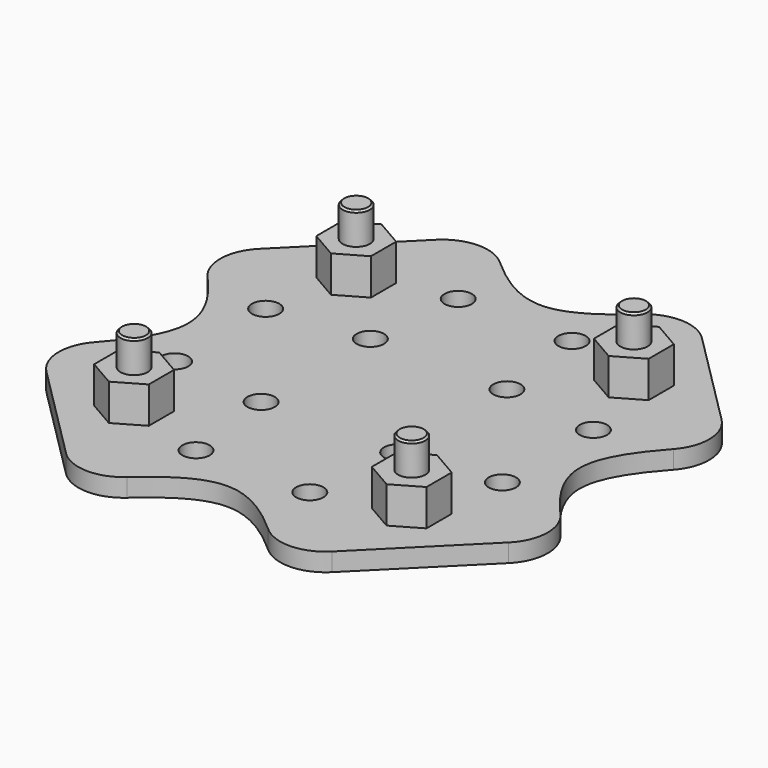
from build123d import *

# Parameters (mm, degrees)
F0_R     = 1.5
F1_DEPTH = 2
F2_R     = 5
F3_DEPTH = 6
F4_DEPTH = 9.5
F5_SIZE  = 0.2


with BuildPart() as f1:
    # F0 (on Top) → F1 (new body)
    with BuildSketch(Plane.XY):
        with BuildLine():
            add(Edge.make_bspline(
                [(-13.142859, 26.857141), (-8.951076, 24.20284), (-4.564468, 21.895542), (0, 20)],
                knots=[66.18026, 66.18026, 66.18026, 66.18026, 80.865454, 80.865454, 80.865454, 80.865454], degree=3))
            Line((-13.142859, 26.857141), (-20, 20))
            Line((-20, 20), (-26.857141, 13.142859))
            add(Edge.make_bspline(
                [(-26.857141, 13.142859), (-24.20284, 8.951076), (-21.895542, 4.564468), (-20, 0)],
                knots=[66.18026, 66.18026, 66.18026, 66.18026, 80.865454, 80.865454, 80.865454, 80.865454], degree=3))
            Line((-20, 0), (0, 0))
            Line((0, 0), (0, 20))
        make_face()
        with Locations((-18, 6.25)):
            Circle(F0_R, mode=Mode.SUBTRACT)
        with Locations((-7.5, 7.5)):
            Circle(F0_R, mode=Mode.SUBTRACT)
        Polygon((-15.25, 18.714102), (-12.25, 16.982051), (-12.25, 13.517949), (-15.25, 11.785898), (-18.25, 13.517949), (-18.25, 16.982051), align=None, mode=Mode.SUBTRACT)
        with Locations((-6.25, 18)):
            Circle(F0_R, mode=Mode.SUBTRACT)
        with BuildLine():
            Line((0, 0), (-20, 0))
            add(Edge.make_bspline(
                [(-26.854903, -13.145097), (-24.198754, -8.951027), (-21.891877, -4.563394), (-20, 0)],
                knots=[66.166, 66.166, 66.166, 66.166, 80.865454, 80.865454, 80.865454, 80.865454], degree=3))
            Line((-26.854903, -13.145097), (-20, -20))
            Line((-20, -20), (-13.145097, -26.854903))
            add(Edge.make_bspline(
                [(0, -20), (-4.563394, -21.891877), (-8.951027, -24.198754), (-13.145097, -26.854903)],
                knots=[0, 0, 0, 0, 14.699453, 14.699453, 14.699453, 14.699453], degree=3))
            Line((0, -20), (0, 0))
        make_face()
        Polygon((-15.25, -11.785898), (-12.25, -13.517949), (-12.25, -16.982051), (-15.25, -18.714102), (-18.25, -16.982051), (-18.25, -13.517949), align=None, mode=Mode.SUBTRACT)
        with Locations((-6.25, -18)):
            Circle(F0_R, mode=Mode.SUBTRACT)
        with Locations((-18, -6.25)):
            Circle(F0_R, mode=Mode.SUBTRACT)
        with Locations((-7.5, -7.5)):
            Circle(F0_R, mode=Mode.SUBTRACT)
        with BuildLine():
            Line((-11.161165, 28.838835), (-13.142859, 26.857141))
            add(Edge.make_bspline(
                [(-13.142859, 26.857141), (-8.951076, 24.20284), (-4.564468, 21.895542), (0, 20)],
                knots=[66.18026, 66.18026, 66.18026, 66.18026, 80.865454, 80.865454, 80.865454, 80.865454], degree=3))
            add(Edge.make_bspline(
                [(13.145097, 26.854903), (8.951027, 24.198754), (4.563394, 21.891877), (0, 20)],
                knots=[66.166, 66.166, 66.166, 66.166, 80.865454, 80.865454, 80.865454, 80.865454], degree=3))
            Line((13.145097, 26.854903), (11.161165, 28.838835))
            add(Edge.make_bspline(
                [(-11.161165, 28.838835), (-7.440777, 25.169417), (0, 17.830583), (7.440777, 25.169417), (11.161165, 28.838835)],
                knots=[0, 0, 0, 0, 13.357773, 26.715546, 26.715546, 26.715546, 26.715546], degree=3))
        make_face()
        with BuildLine():
            add(Edge.make_bspline(
                [(-26.857141, 13.142859), (-24.20284, 8.951076), (-21.895542, 4.564468), (-20, 0)],
                knots=[66.18026, 66.18026, 66.18026, 66.18026, 80.865454, 80.865454, 80.865454, 80.865454], degree=3))
            Line((-26.857141, 13.142859), (-28.838835, 11.161165))
            add(Edge.make_bspline(
                [(-28.838835, -11.161165), (-25.169417, -7.440777), (-17.830583, 0), (-25.169417, 7.440777), (-28.838835, 11.161165)],
                knots=[0, 0, 0, 0, 13.357773, 26.715546, 26.715546, 26.715546, 26.715546], degree=3))
            Line((-28.838835, -11.161165), (-26.854903, -13.145097))
            add(Edge.make_bspline(
                [(-26.854903, -13.145097), (-24.198754, -8.951027), (-21.891877, -4.563394), (-20, 0)],
                knots=[66.166, 66.166, 66.166, 66.166, 80.865454, 80.865454, 80.865454, 80.865454], degree=3))
        make_face()
        with BuildLine():
            add(Edge.make_bspline(
                [(26.854903, 13.145097), (24.198754, 8.951027), (21.891877, 4.563394), (20, 0)],
                knots=[66.166, 66.166, 66.166, 66.166, 80.865454, 80.865454, 80.865454, 80.865454], degree=3))
            add(Edge.make_bspline(
                [(20, 0), (21.891877, -4.563394), (24.198754, -8.951027), (26.854903, -13.145097)],
                knots=[0, 0, 0, 0, 14.699454, 14.699454, 14.699454, 14.699454], degree=3))
            Line((26.854903, -13.145097), (28.838835, -11.161165))
            add(Edge.make_bspline(
                [(28.838835, 11.161165), (25.169417, 7.440777), (17.830583, 0), (25.169417, -7.440777), (28.838835, -11.161165)],
                knots=[0, 0, 0, 0, 13.357773, 26.715546, 26.715546, 26.715546, 26.715546], degree=3))
            Line((28.838835, 11.161165), (26.854903, 13.145097))
        make_face()
        with BuildLine():
            Line((20, 0), (0, 0))
            Line((0, 0), (0, -20))
            add(Edge.make_bspline(
                [(0, -20), (4.563394, -21.891877), (8.951027, -24.198754), (13.145097, -26.854903)],
                knots=[0, 0, 0, 0, 14.699453, 14.699453, 14.699453, 14.699453], degree=3))
            Line((13.145097, -26.854903), (20, -20))
            Line((20, -20), (26.854903, -13.145097))
            add(Edge.make_bspline(
                [(20, 0), (21.891877, -4.563394), (24.198754, -8.951027), (26.854903, -13.145097)],
                knots=[0, 0, 0, 0, 14.699454, 14.699454, 14.699454, 14.699454], degree=3))
        make_face()
        with Locations((6.25, -18)):
            Circle(F0_R, mode=Mode.SUBTRACT)
        Polygon((15.25, -18.714102), (12.25, -16.982051), (12.25, -13.517949), (15.25, -11.785898), (18.25, -13.517949), (18.25, -16.982051), align=None, mode=Mode.SUBTRACT)
        with Locations((7.5, -7.5)):
            Circle(F0_R, mode=Mode.SUBTRACT)
        with Locations((18, -6.25)):
            Circle(F0_R, mode=Mode.SUBTRACT)
        with BuildLine():
            add(Edge.make_bspline(
                [(0, -20), (4.563394, -21.891877), (8.951027, -24.198754), (13.145097, -26.854903)],
                knots=[0, 0, 0, 0, 14.699453, 14.699453, 14.699453, 14.699453], degree=3))
            add(Edge.make_bspline(
                [(0, -20), (-4.563394, -21.891877), (-8.951027, -24.198754), (-13.145097, -26.854903)],
                knots=[0, 0, 0, 0, 14.699453, 14.699453, 14.699453, 14.699453], degree=3))
            Line((-13.145097, -26.854903), (-11.161165, -28.838835))
            add(Edge.make_bspline(
                [(11.161165, -28.838835), (7.440777, -25.169417), (0, -17.830583), (-7.440777, -25.169417), (-11.161165, -28.838835)],
                knots=[0, 0, 0, 0, 13.357773, 26.715546, 26.715546, 26.715546, 26.715546], degree=3))
            Line((11.161165, -28.838835), (13.145097, -26.854903))
        make_face()
        with BuildLine():
            add(Edge.make_bspline(
                [(13.145097, 26.854903), (8.951027, 24.198754), (4.563394, 21.891877), (0, 20)],
                knots=[66.166, 66.166, 66.166, 66.166, 80.865454, 80.865454, 80.865454, 80.865454], degree=3))
            Line((0, 20), (0, 0))
            Line((0, 0), (20, 0))
            add(Edge.make_bspline(
                [(26.854903, 13.145097), (24.198754, 8.951027), (21.891877, 4.563394), (20, 0)],
                knots=[66.166, 66.166, 66.166, 66.166, 80.865454, 80.865454, 80.865454, 80.865454], degree=3))
            Line((26.854903, 13.145097), (20, 20))
            Line((20, 20), (13.145097, 26.854903))
        make_face()
        with Locations((7.5, 7.5)):
            Circle(F0_R, mode=Mode.SUBTRACT)
        with Locations((18, 6.25)):
            Circle(F0_R, mode=Mode.SUBTRACT)
        with Locations((6.25, 18)):
            Circle(F0_R, mode=Mode.SUBTRACT)
        Polygon((15.25, 11.785898), (12.25, 13.517949), (12.25, 16.982051), (15.25, 18.714102), (18.25, 16.982051), (18.25, 13.517949), align=None, mode=Mode.SUBTRACT)
        Polygon((-12.25, 13.517949), (-12.25, 16.982051), (-15.25, 18.714102), (-18.25, 16.982051), (-18.25, 13.517949), (-15.25, 11.785898), align=None)
        with Locations((-15.25, 15.25)):
            Circle(F0_R, mode=Mode.SUBTRACT)
        with Locations((-15.25, 15.25)):
            Circle(F0_R)
        Polygon((12.25, 16.982051), (12.25, 13.517949), (15.25, 11.785898), (18.25, 13.517949), (18.25, 16.982051), (15.25, 18.714102), align=None)
        with Locations((15.25, 15.25)):
            Circle(F0_R, mode=Mode.SUBTRACT)
        with Locations((15.25, 15.25)):
            Circle(F0_R)
        Polygon((12.25, -13.517949), (12.25, -16.982051), (15.25, -18.714102), (18.25, -16.982051), (18.25, -13.517949), (15.25, -11.785898), align=None)
        with Locations((15.25, -15.25)):
            Circle(F0_R, mode=Mode.SUBTRACT)
        with Locations((15.25, -15.25)):
            Circle(F0_R)
        Polygon((-12.25, -16.982051), (-12.25, -13.517949), (-15.25, -11.785898), (-18.25, -13.517949), (-18.25, -16.982051), (-15.25, -18.714102), align=None)
        with Locations((-15.25, -15.25)):
            Circle(F0_R, mode=Mode.SUBTRACT)
        with Locations((-15.25, -15.25)):
            Circle(F0_R)
    extrude(amount=F1_DEPTH)

    # F2
    f2_edges = [f1.edges().sort_by_distance(p)[0] for p in [
        (-11.161165, 28.838835, 1),
        (-28.838835, 11.161165, 1),
        (11.161165, 28.838835, 1),
        (28.838835, 11.161165, 1),
        (28.838835, -11.161165, 1),
        (11.161165, -28.838835, 1),
        (-11.161165, -28.838835, 1),
        (-28.838835, -11.161165, 1),
    ]]
    fillet(f2_edges, radius=F2_R)

    # F0 (on Top) → F3 (join)
    with BuildSketch(Plane.XY):
        with Locations((-15.25, 15.25)):
            Circle(F0_R)
        Polygon((-12.25, 13.517949), (-12.25, 16.982051), (-15.25, 18.714102), (-18.25, 16.982051), (-18.25, 13.517949), (-15.25, 11.785898), align=None)
        with Locations((-15.25, 15.25)):
            Circle(F0_R, mode=Mode.SUBTRACT)
        Polygon((12.25, 16.982051), (12.25, 13.517949), (15.25, 11.785898), (18.25, 13.517949), (18.25, 16.982051), (15.25, 18.714102), align=None)
        with Locations((15.25, 15.25)):
            Circle(F0_R, mode=Mode.SUBTRACT)
        with Locations((15.25, 15.25)):
            Circle(F0_R)
        with Locations((15.25, -15.25)):
            Circle(F0_R)
        Polygon((12.25, -13.517949), (12.25, -16.982051), (15.25, -18.714102), (18.25, -16.982051), (18.25, -13.517949), (15.25, -11.785898), align=None)
        with Locations((15.25, -15.25)):
            Circle(F0_R, mode=Mode.SUBTRACT)
        Polygon((-12.25, -16.982051), (-12.25, -13.517949), (-15.25, -11.785898), (-18.25, -13.517949), (-18.25, -16.982051), (-15.25, -18.714102), align=None)
        with Locations((-15.25, -15.25)):
            Circle(F0_R, mode=Mode.SUBTRACT)
        with Locations((-15.25, -15.25)):
            Circle(F0_R)
    extrude(amount=F3_DEPTH)

    # F0 (on Top) → F4 (join)
    with BuildSketch(Plane.XY):
        with Locations((-15.25, 15.25)):
            Circle(F0_R)
        with Locations((-15.25, -15.25)):
            Circle(F0_R)
        with Locations((15.25, 15.25)):
            Circle(F0_R)
        with Locations((15.25, -15.25)):
            Circle(F0_R)
    extrude(amount=F4_DEPTH)

    # F5
    f5_edges = [f1.edges().sort_by_distance(p)[0] for p in [
        (-16.75, -15.25, 9.5),
        (-16.75, 15.25, 9.5),
        (13.75, 15.25, 9.5),
        (13.75, -15.25, 9.5),
    ]]
    chamfer(f5_edges, length=F5_SIZE)


solid = f1.part
